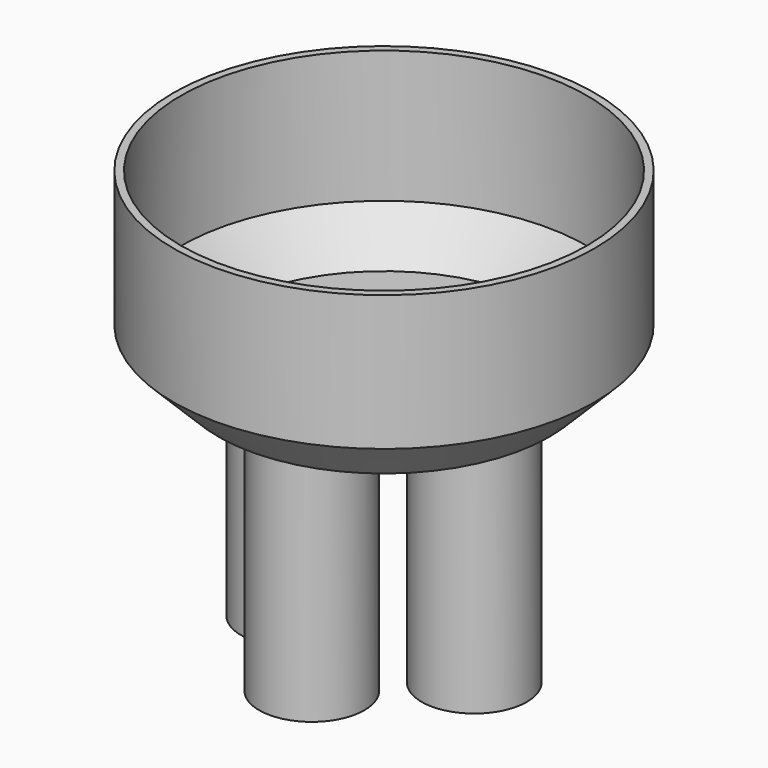
from build123d import *

# Parameters (mm, degrees)
F0_R     = 177.8
F1_DEPTH = 152.4
F2_R     = 44.45
F3_DEPTH = 209.55
F4_SIZE  = 38.1
F5_T     = -6.35
F6_R     = 132.6910727627
F7_DEPTH = 6.35


with BuildPart() as f1:
    # F0 (on Top) → F1 (new body)
    with BuildSketch(Plane.XY):
        Circle(F0_R)
    extrude(amount=F1_DEPTH)

    # F2 (on face) → F3 (join)
    with BuildSketch(Plane(origin=(0, 0, 0), x_dir=(1, 0, 0), z_dir=(0, 0, -1))):
        with Locations((76.2, 0)):
            Circle(F2_R)
        with Locations((0, 76.2)):
            Circle(F2_R)
        with Locations((-76.2, 0)):
            Circle(F2_R)
    extrude(amount=F3_DEPTH)

    # F4
    f4_edges = [f1.edges().sort_by_distance(p)[0] for p in [
        (-177.8, 0, 0),
    ]]
    chamfer(f4_edges, length=F4_SIZE)

    # F5
    f5_openings = [f1.faces().sort_by_distance(p)[0] for p in [
        (0, 0, 152.4),
    ]]
    offset(amount=F5_T, openings=f5_openings, kind=Kind.INTERSECTION)

    # F6 (on face) → F7 (cut)
    with BuildSketch(Plane(origin=(0, 0, -209.55), x_dir=(1, 0, 0), z_dir=(0, 0, -1))):
        Circle(F6_R)
    extrude(amount=-F7_DEPTH, mode=Mode.SUBTRACT)


solid = f1.part
